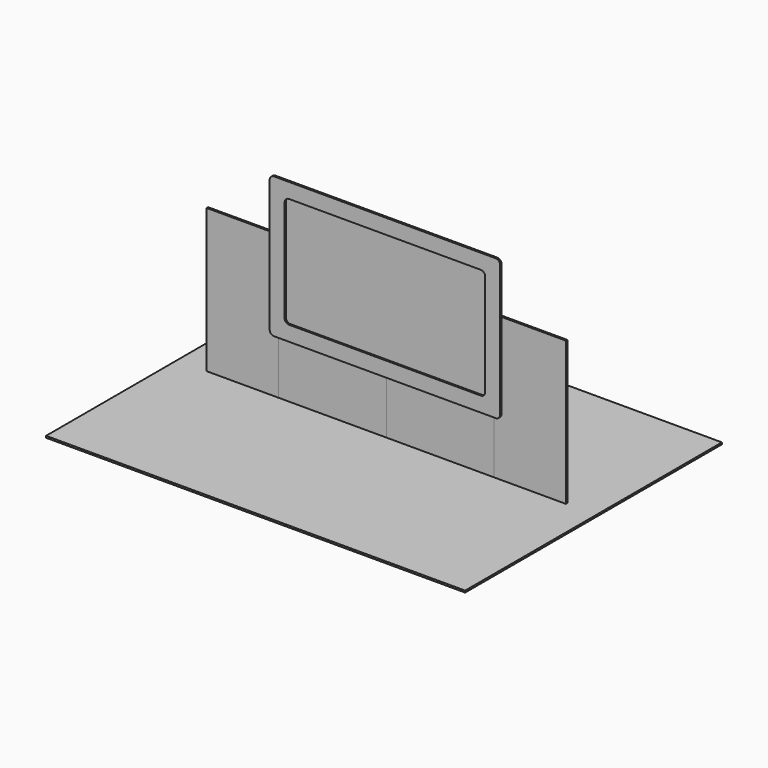
from build123d import *

# Parameters (mm, degrees)
F0_W     = 1219.2
F0_H     = 2438.4
F1_DEPTH = 30.48
F0_W_2   = 1828.8
F0_H_2   = 914.4
F0_W_3   = 126.9999492
F0_H_3   = 1524
F2_DEPTH = 30.48
F0_W_4   = 3403.6001016
F0_H_4   = 1879.6001016
F3_DEPTH = 30.48
F4_DEPTH = 3.048
F5_R     = 76.2
F6_W     = 7111.5454435349
F6_H     = 5447.8538036346
F7_DEPTH = 30.48


with BuildPart() as f1:
    # F0 (on Front) → F1 (new body)
    with BuildSketch(Plane.XZ):
        with Locations((609.6, 1219.2)):
            Rectangle(F0_W, F0_H)
    extrude(amount=-F1_DEPTH)


with BuildPart() as f1b:
    # F0 (on Front) → F1, piece 2 (new body)
    with BuildSketch(Plane.XZ):
        with Locations((3352.8, 457.2)):
            Rectangle(F0_W_2, F0_H_2)
    extrude(amount=-F1_DEPTH)


with BuildPart() as f1c:
    # F0 (on Front) → F1, piece 3 (new body)
    with BuildSketch(Plane.XZ):
        Polygon((6096, 914.4), (6096, 0), (7315.2, 0), (7315.2, 2438.4), (6222.9999492, 2438.4), (6222.9999492, 914.4), align=None)
        with Locations((6159.4999746, 1676.4)):
            Rectangle(F0_W_3, F0_H_3)
    extrude(amount=-F1_DEPTH)


with BuildPart() as f2:
    # F0 (on Front) → F2 (new body)
    with BuildSketch(Plane.XZ):
        Polygon((1219.2, 2438.4), (1219.2, 0), (2438.4, 0), (2438.4, 914.4), (2311.4000508, 914.4), (2311.4000508, 2438.4), align=None)
        with Locations((2374.9000254, 1676.4)):
            Rectangle(F0_W_3, F0_H_3)
    extrude(amount=-F2_DEPTH)


with BuildPart() as f2b:
    # F0 (on Front) → F2, piece 2 (new body)
    with BuildSketch(Plane.XZ):
        with Locations((5181.6, 457.2)):
            Rectangle(F0_W_2, F0_H_2)
    extrude(amount=-F2_DEPTH)


with BuildPart() as f2c:
    # F0 (on Front) → F2, piece 3 (new body)
    with BuildSketch(Plane.XZ):
        with Locations((7924.8, 1219.2)):
            Rectangle(F0_W, F0_H)
    extrude(amount=-F2_DEPTH)


with BuildPart() as f3:
    # F0 (on Front) → F3 (new body)
    with BuildSketch(Plane.XZ):
        Polygon((2311.4000508, 3301.9998984), (2311.4000508, 2438.4), (2438.4, 2438.4), (2438.4, 914.4), (4267.2, 914.4), (6096, 914.4), (6096, 2438.4), (6222.9999492, 2438.4), (6222.9999492, 3301.9998984), align=None)
        with Locations((4267.2, 2108.1999492)):
            Rectangle(F0_W_4, F0_H_4, mode=Mode.SUBTRACT)
        with Locations((2374.9000254, 1676.4)):
            Rectangle(F0_W_3, F0_H_3)
        with Locations((6159.4999746, 1676.4)):
            Rectangle(F0_W_3, F0_H_3)
    extrude(amount=F3_DEPTH)

    # F5
    f5_edges = [f3.edges().sort_by_distance(p)[0] for p in [
        (2311.400051, -15.24, 3301.999898),
        (2565.399949, -15.24, 3048),
        (2311.400051, -15.24, 914.4),
        (2565.399949, -15.24, 1168.399898),
        (6222.999949, -15.24, 914.4),
        (5969.000051, -15.24, 1168.399898),
        (6222.999949, -15.24, 3301.999898),
        (5969.000051, -15.24, 3048),
    ]]
    fillet(f5_edges, radius=F5_R)


with BuildPart() as f4:
    # F0 (on Front) → F4 (new body)
    with BuildSketch(Plane.XZ):
        with Locations((4267.2, 2108.1999492)):
            Rectangle(F0_W_4, F0_H_4)
    extrude(amount=F4_DEPTH)


with BuildPart() as f7:
    # F6 (on Top) → F7 (new body)
    with BuildSketch(Plane.XY):
        with Locations((4270.0482010841, -53.0272722244)):
            Rectangle(F6_W, F6_H)
    extrude(amount=-F7_DEPTH)


solid = Compound([f1b.part, f1c.part, f2.part, f2b.part, f3.part, f4.part, f7.part])
